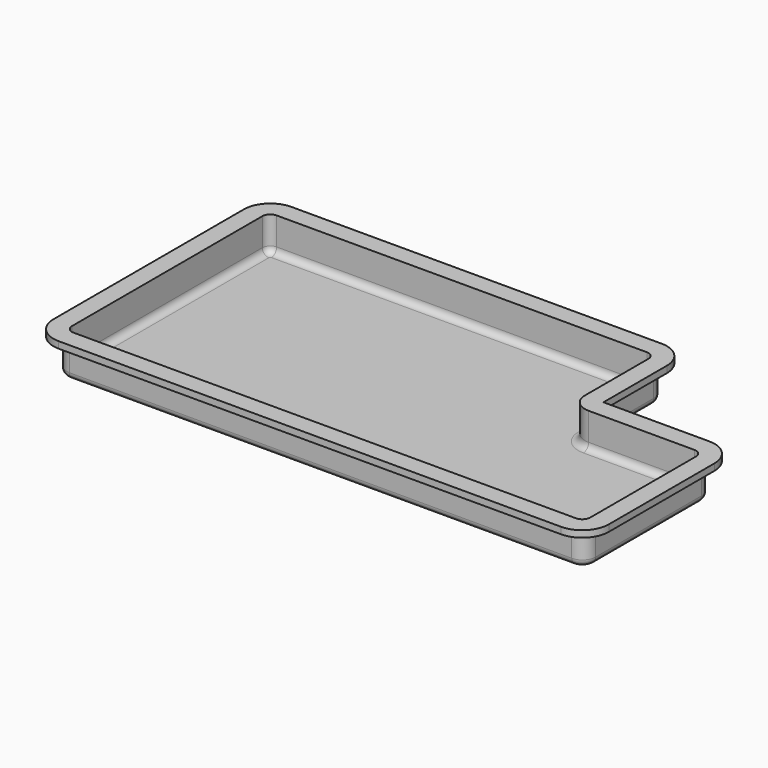
from build123d import *

# Parameters (mm, degrees)
F1_DEPTH = 30
F2_T     = -4
F4_DEPTH = 5
F5_R     = 5
F6_R     = 5


with BuildPart() as f1:
    # F0 (on Top) → F1 (new body)
    with BuildSketch(Plane.XY):
        with BuildLine():
            ThreePointArc((-83.0841619524, 140.1000192761), (-90.1552297642, 137.171087088), (-93.0841619524, 130.1000192761))
            Line((-93.0841619524, 130.1000192761), (-93.0841619524, -49.8999807239))
            ThreePointArc((-93.0841619524, -49.8999807239), (-90.1552297642, -56.9710485357), (-83.0841619524, -59.8999807239))
            Line((-83.0841619524, -59.8999807239), (296.9158380476, -59.8999807239))
            ThreePointArc((296.9158380476, -59.8999807239), (303.9869058595, -56.9710485357), (306.9158380476, -49.8999807239))
            Line((306.9158380476, -49.8999807239), (306.9158380476, 50.1000192761))
            ThreePointArc((306.9158380476, 50.1000192761), (303.9869058595, 57.171087088), (296.9158380476, 60.1000192761))
            Line((296.9158380476, 60.1000192761), (216.9158380476, 60.1000192761))
            ThreePointArc((216.9158380476, 60.1000192761), (209.8447702358, 63.0289514643), (206.9158380476, 70.1000192761))
            Line((206.9158380476, 70.1000192761), (206.9158380476, 130.1000192761))
            ThreePointArc((206.9158380476, 130.1000192761), (203.9869058595, 137.171087088), (196.9158380476, 140.1000192761))
            Line((196.9158380476, 140.1000192761), (-83.0841619524, 140.1000192761))
        make_face()
    extrude(amount=F1_DEPTH)

    # F2
    f2_openings = [f1.faces().sort_by_distance(p)[0] for p in [
        (90.23061, 33.426728, 30),
    ]]
    offset(amount=F2_T, openings=f2_openings)

    # F3 (on face) → F4 (join)
    with BuildSketch(Plane.XY.offset(30)):
        with BuildLine():
            Line((196.9158380476, 150.1000192761), (-83.0841619524, 150.1000192761))
            ThreePointArc((-83.0841619524, 150.1000192761), (-97.2262975761, 144.2421548999), (-103.0841619524, 130.1000192761))
            Line((-103.0841619524, 130.1000192761), (-103.0841619524, -49.8999807239))
            ThreePointArc((-103.0841619524, -49.8999807239), (-97.2262975761, -64.0421163476), (-83.0841619524, -69.8999807239))
            Line((-83.0841619524, -69.8999807239), (296.9158380476, -69.8999807239))
            ThreePointArc((296.9158380476, -69.8999807239), (311.0579736714, -64.0421163476), (316.9158380476, -49.8999807239))
            Line((316.9158380476, -49.8999807239), (316.9158380476, 50.1000192761))
            ThreePointArc((316.9158380476, 50.1000192761), (311.0579736714, 64.2421548999), (296.9158380476, 70.1000192761))
            Line((296.9158380476, 70.1000192761), (216.9158380476, 70.1000192761))
            Line((216.9158380476, 70.1000192761), (216.9158380476, 130.1000192761))
            ThreePointArc((216.9158380476, 130.1000192761), (211.0579736714, 144.2421548999), (196.9158380476, 150.1000192761))
        make_face()
        with BuildLine():
            ThreePointArc((196.9158380476, 136.1000192761), (201.1584787347, 134.3426599633), (202.9158380476, 130.1000192761))
            Line((202.9158380476, 130.1000192761), (202.9158380476, 70.1000192761))
            ThreePointArc((202.9158380476, 70.1000192761), (207.016343111, 60.2005243395), (216.9158380476, 56.1000192761))
            Line((216.9158380476, 56.1000192761), (296.9158380476, 56.1000192761))
            ThreePointArc((296.9158380476, 56.1000192761), (301.1584787347, 54.3426599633), (302.9158380476, 50.1000192761))
            Line((302.9158380476, 50.1000192761), (302.9158380476, -49.8999807239))
            ThreePointArc((302.9158380476, -49.8999807239), (301.1584787347, -54.142621411), (296.9158380476, -55.8999807239))
            Line((296.9158380476, -55.8999807239), (-83.0841619524, -55.8999807239))
            ThreePointArc((-83.0841619524, -55.8999807239), (-87.3268026395, -54.142621411), (-89.0841619524, -49.8999807239))
            Line((-89.0841619524, -49.8999807239), (-89.0841619524, 130.1000192761))
            ThreePointArc((-89.0841619524, 130.1000192761), (-87.3268026395, 134.3426599633), (-83.0841619524, 136.1000192761))
            Line((-83.0841619524, 136.1000192761), (196.9158380476, 136.1000192761))
        make_face(mode=Mode.SUBTRACT)
    extrude(amount=-F4_DEPTH)

    # F5
    f5_edges = [f1.edges().sort_by_distance(p)[0] for p in [
        (256.915838, 56.100019, 4),
        (207.016343, 60.200524, 4),
        (202.915838, 100.100019, 4),
        (201.158479, 134.34266, 4),
        (56.915838, 136.100019, 4),
        (-87.326803, 134.34266, 4),
        (-89.084162, 40.100019, 4),
        (-87.326803, -54.142621, 4),
        (106.915838, -55.899981, 4),
        (301.158479, -54.142621, 4),
        (302.915838, 0.100019, 4),
        (301.158479, 54.34266, 4),
    ]]
    fillet(f5_edges, radius=F5_R)

    # F6
    f6_edges = [f1.edges().sort_by_distance(p)[0] for p in [
        (106.915838, -59.899981, 25),
        (106.915838, -59.899981, 0),
    ]]
    fillet(f6_edges, radius=F6_R)


solid = f1.part
